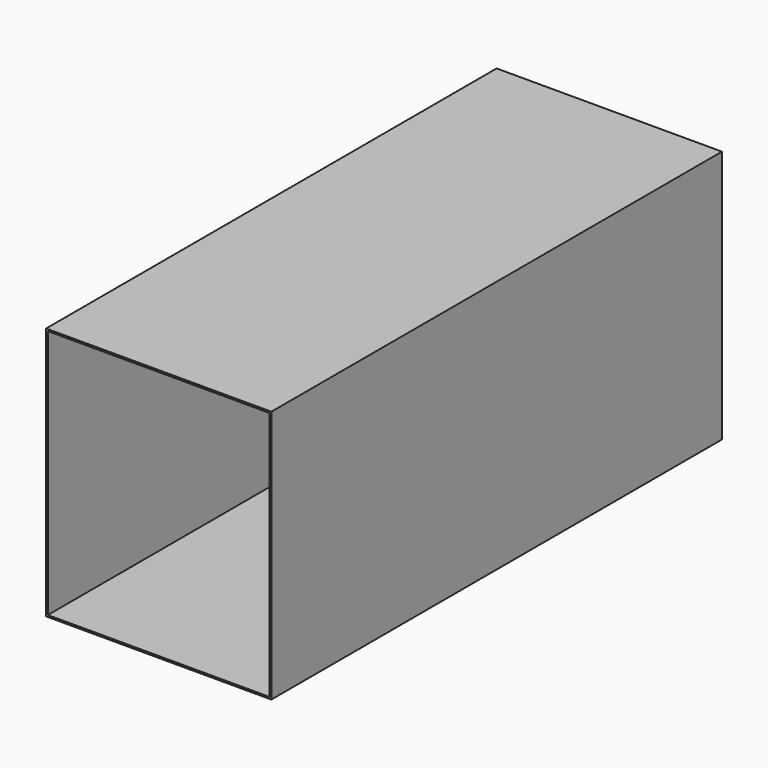
from build123d import *

# Parameters (mm, degrees)
F0_W     = 2438.4
F0_H     = 2743.2
F1_DEPTH = 3048
F2_T     = -19.05


with BuildPart() as f1:
    # F0 (on Front) → F1 (new body, symmetric)
    with BuildSketch(Plane.XZ):
        Rectangle(F0_W, F0_H)
    extrude(amount=F1_DEPTH, both=True)

    # F2
    f2_openings = [f1.faces().sort_by_distance(p)[0] for p in [
        (0, -3048, 0),
    ]]
    offset(amount=F2_T, openings=f2_openings)


solid = f1.part
